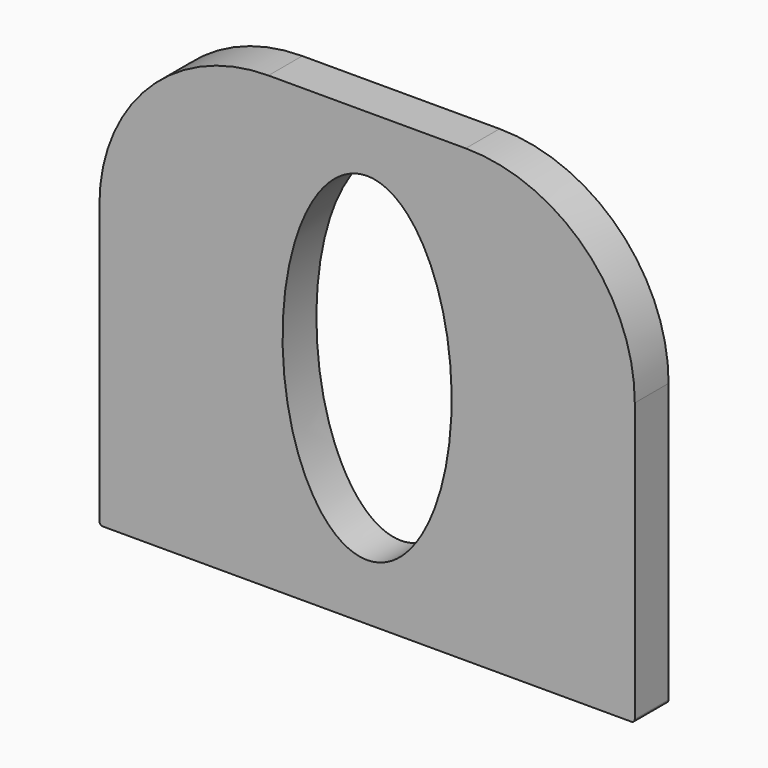
from build123d import *

# Parameters (mm, degrees)
F0_W     = 60.325
F0_H     = 50.8
F1_DEPTH = 4.7625
F2_R     = 19.05
F3_R     = 0.381
F5_DEPTH = 25.4


with BuildPart() as f1:
    # F0 (on Front) → F1 (new body)
    with BuildSketch(Plane.XZ):
        with Locations((0, -6.35)):
            Rectangle(F0_W, F0_H)
    extrude(amount=F1_DEPTH)

    # F2
    f2_edges = [f1.edges().sort_by_distance(p)[0] for p in [
        (-30.1625, -2.38125, 19.05),
        (30.1625, -2.38125, 19.05),
    ]]
    fillet(f2_edges, radius=F2_R)

    # F3
    f3_edges = [f1.edges().sort_by_distance(p)[0] for p in [
        (-30.1625, -2.38125, -31.75),
        (30.1625, -2.38125, -31.75),
    ]]
    fillet(f3_edges, radius=F3_R)

    # F4 (on face) → F5 (cut)
    with BuildSketch(Plane.XZ.offset(4.7625)):
        with BuildLine():
            add(Edge.make_bspline(
                [(0, 12.7), (-16.497784, 12.7), (-8.248892, -15.875), (0, -44.45), (8.248892, -15.875), (16.497784, 12.7), (0, 12.7)],
                knots=[0, 0, 0, 2.094395, 2.094395, 4.18879, 4.18879, 6.283185, 6.283185, 6.283185], degree=2, weights=[1, 0.5, 1, 0.5, 1, 0.5, 1]))
        make_face()
    extrude(amount=-F5_DEPTH, mode=Mode.SUBTRACT)


solid = f1.part
